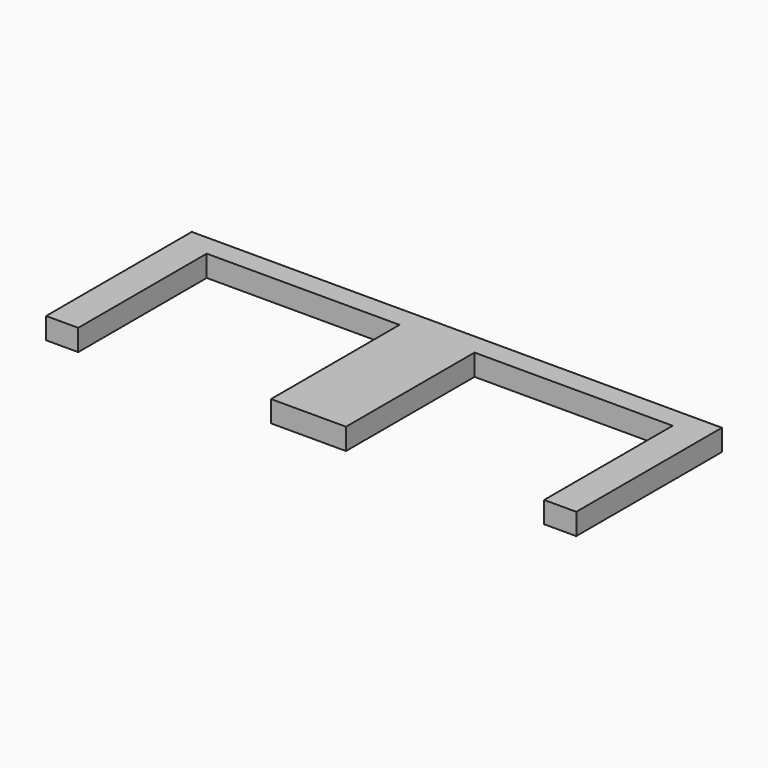
from build123d import *

# Parameters (mm, degrees)
BOX142_W     = 49.5
BOX142_H     = 2
BOX142_DEPTH = 2
BOX143_W     = 3
BOX143_H     = 15
BOX143_DEPTH = 2
BOX144_W     = 3
BOX144_H     = 15
BOX144_DEPTH = 2
BOX139_W     = 7
BOX139_H     = 15
BOX139_DEPTH = 2


with BuildPart() as cube131:
    # Box142 → Box142 (new body)
    with BuildSketch(Plane(origin=(34.5, -2, 2), x_dir=(1, 0, 0), z_dir=(0, 0, 1))):
        with Locations((24.75, 1)):
            Rectangle(BOX142_W, BOX142_H)
    extrude(amount=BOX142_DEPTH)


with BuildPart() as cube132:
    # Box143 → Box143 (new body)
    with BuildSketch(Plane(origin=(34.5, -17, 2), x_dir=(1, 0, 0), z_dir=(0, 0, 1))):
        with Locations((1.5, 7.5)):
            Rectangle(BOX143_W, BOX143_H)
    extrude(amount=BOX143_DEPTH)


with BuildPart() as cube133:
    # Box144 → Box144 (new body)
    with BuildSketch(Plane(origin=(81, -17, 2), x_dir=(1, 0, 0), z_dir=(0, 0, 1))):
        with Locations((1.5, 7.5)):
            Rectangle(BOX144_W, BOX144_H)
    extrude(amount=BOX144_DEPTH)


with BuildPart() as fusion047:
    # Box139 → Box139 (new body)
    with BuildSketch(Plane(origin=(55.5, -17, 2), x_dir=(1, 0, 0), z_dir=(0, 0, 1))):
        with Locations((3.5, 7.5)):
            Rectangle(BOX139_W, BOX139_H)
    extrude(amount=BOX139_DEPTH)

    # Fusion047: union Cube131, Cube132, Cube133
    add(cube131.part)
    add(cube132.part)
    add(cube133.part)


solid = fusion047.part
